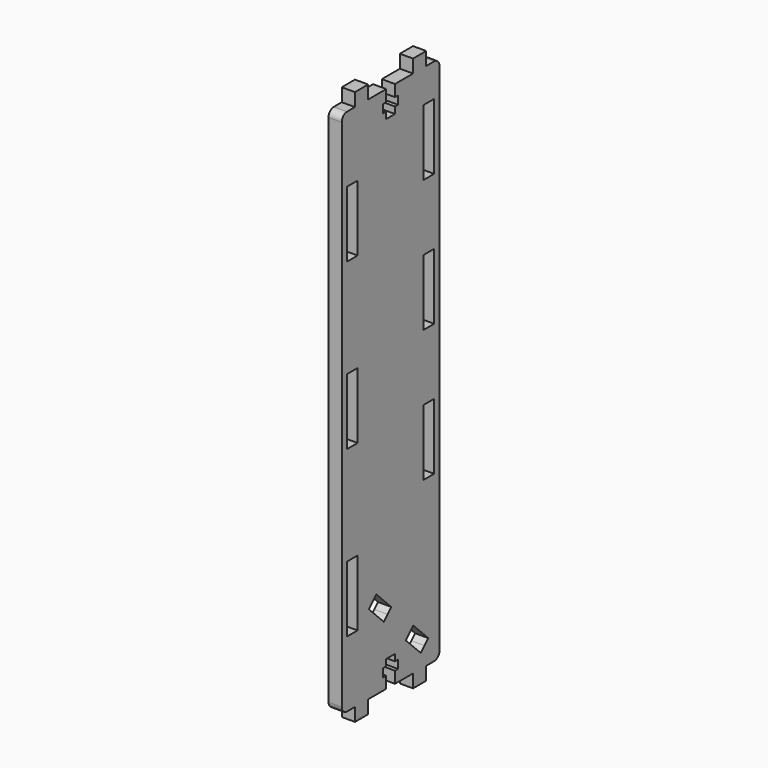
from build123d import *

# Parameters (mm, degrees)
F0_W     = 4
F0_H     = 20
F1_DEPTH = 4
F2_R     = 2


with BuildPart() as f1:
    # F0 (on Right) → F1 (new body)
    with BuildSketch(Plane.YZ):
        Polygon((13.5, -80), (18.5, -80), (18.5, 80), (13.5, 80), (13.5, 84), (8.5, 84), (8.5, 80), (1.65, 80), (1.65, 76.5), (2.8, 76.5), (2.8, 74), (1.65, 74), (1.65, 72), (-1.65, 72), (-1.65, 74), (-2.8, 74), (-2.8, 76.5), (-1.65, 76.5), (-1.65, 80), (-8.5, 80), (-8.5, 84), (-13.5, 84), (-13.5, 80), (-18.5, 80), (-18.5, -80), (-13.5, -80), (-13.5, -84), (-8.5, -84), (-8.5, -80), (-1.65, -80), (-1.65, -76.5), (-2.8, -76.5), (-2.8, -74), (-1.65, -74), (-1.65, -72), (1.65, -72), (1.65, -74), (2.8, -74), (2.8, -76.5), (1.65, -76.5), (1.65, -80), (8.5, -80), (8.5, -84), (13.5, -84), align=None)
        with Locations((-14.5, -50)):
            Rectangle(F0_W, F0_H, mode=Mode.SUBTRACT)
        Polygon((-8.257359, -56.071068), (-6.843146, -54.656854), (-5.428932, -53.242641), (0.227922, -58.899495), (-1.186292, -60.313708), (-2.600505, -61.727922), align=None, mode=Mode.SUBTRACT)
        Polygon((14.257359, -72.928932), (12.843146, -74.343146), (11.428932, -75.757359), (5.772078, -70.100505), (7.186292, -68.686292), (8.600505, -67.272078), align=None, mode=Mode.SUBTRACT)
        with Locations((14.5, -20)):
            Rectangle(F0_W, F0_H, mode=Mode.SUBTRACT)
        Polygon((-16.5, -10), (-16.5, 0), (-16.5, 10), (-12.5, 10), (-12.5, 0), (-12.5, -10), align=None, mode=Mode.SUBTRACT)
        with Locations((-14.5, 50)):
            Rectangle(F0_W, F0_H, mode=Mode.SUBTRACT)
        Polygon((12.5, 10), (12.5, 20), (12.5, 30), (16.5, 30), (16.5, 20), (16.5, 10), align=None, mode=Mode.SUBTRACT)
        with Locations((14.5, 60)):
            Rectangle(F0_W, F0_H, mode=Mode.SUBTRACT)
    extrude(amount=F1_DEPTH)

    # F2
    f2_edges = [f1.edges().sort_by_distance(p)[0] for p in [
        (2, -18.5, -80),
        (2, 18.5, -80),
        (2, -18.5, 80),
        (2, 18.5, 80),
    ]]
    fillet(f2_edges, radius=F2_R)


solid = f1.part
